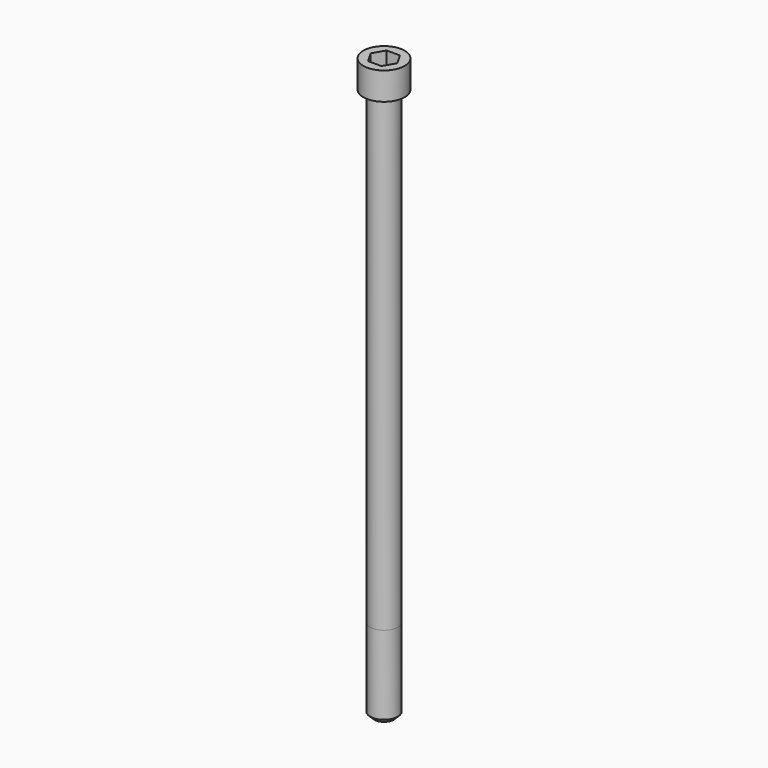
from build123d import *

# Parameters (mm, degrees)
POCKET_DEPTH = 10.07


with BuildPart() as part:
    # Sketch → Revolve (revolve)
    with BuildSketch(Plane.YZ):
        with BuildLine():
            Line((5.999, 0), (9, 0))
            Line((9, 0), (9, 11.97229))
            ThreePointArc((9, 11.97229), (8.991884, 11.991884), (8.97229, 12))
            Line((8.97229, 12), (0, 12))
            Line((0, -240), (0, 12))
            Line((4.25, -240), (0, -240))
            Line((6, -238.25), (4.25, -240))
            Line((6, -204), (6, -238.25))
            Line((5.999, 0), (6, -204))
        make_face()
    revolve(axis=Axis((0, 0, 0), (0, 0, 1)))

    # Sketch001 → Pocket (cut)
    with BuildSketch(Plane.XY.offset(12)):
        Polygon((5.813917, 0), (2.906959, 5.035), (-2.906959, 5.035), (-5.813917, 0), (-2.906959, -5.035), (2.906959, -5.035), align=None)
    extrude(amount=-POCKET_DEPTH, mode=Mode.SUBTRACT)


solid = part.part
